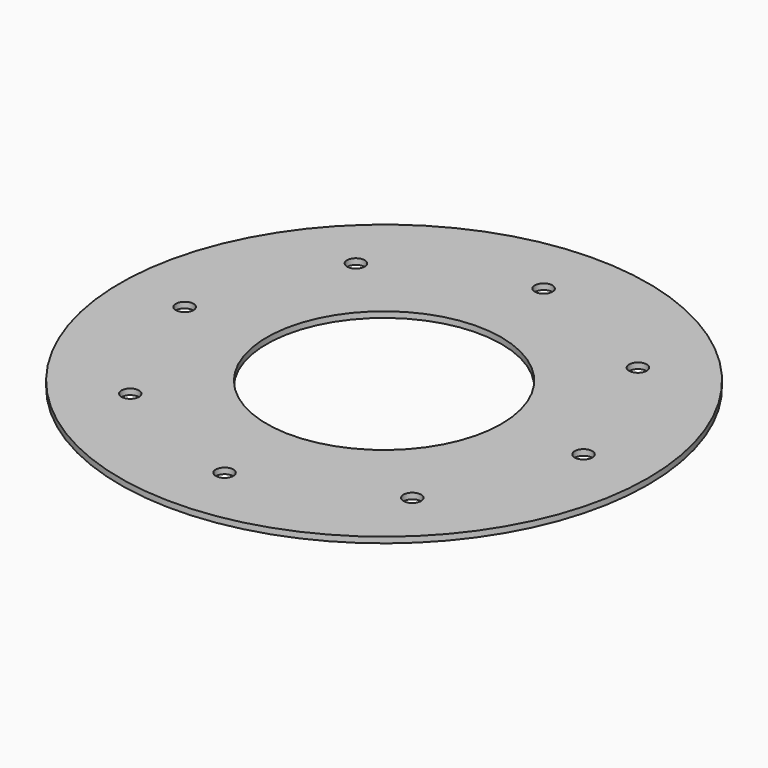
from build123d import *

# Parameters (mm, degrees)
SKETCH_R      = 45
SKETCH_R_2    = 20
SKETCH_R_3    = 1.5
EXTRUDE_DEPTH = 1


with BuildPart() as part:
    # Sketch → Extrude (new body)
    with BuildSketch(Plane.XY):
        Circle(SKETCH_R)
        Circle(SKETCH_R_2, mode=Mode.SUBTRACT)
        with Locations((-24.041631, 24.041631)):
            Circle(SKETCH_R_3, mode=Mode.SUBTRACT)
        with Locations((0, 34)):
            Circle(SKETCH_R_3, mode=Mode.SUBTRACT)
        with Locations((34, 0)):
            Circle(SKETCH_R_3, mode=Mode.SUBTRACT)
        with Locations((0, -34)):
            Circle(SKETCH_R_3, mode=Mode.SUBTRACT)
        with Locations((-24.041631, -24.041631)):
            Circle(SKETCH_R_3, mode=Mode.SUBTRACT)
        with Locations((-34, 0)):
            Circle(SKETCH_R_3, mode=Mode.SUBTRACT)
        with Locations((24.041631, -24.041631)):
            Circle(SKETCH_R_3, mode=Mode.SUBTRACT)
        with Locations((24.041631, 24.041631)):
            Circle(SKETCH_R_3, mode=Mode.SUBTRACT)
    extrude(amount=EXTRUDE_DEPTH)


solid = part.part
